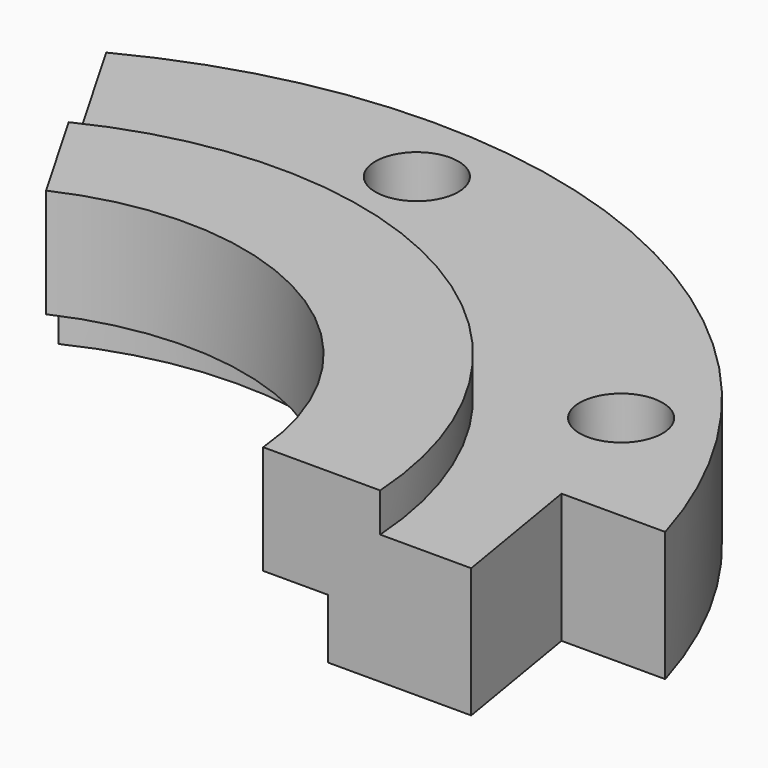
from build123d import *

# Parameters (mm, degrees)
F1_ANGLE  = 120
F2_R      = 1.6
F3_DEPTH  = 5
F6_W      = 12.938
F6_H      = 7.452
F7_DEPTH  = 1
F8_W      = 13.007
F8_H      = 7.97
F9_DEPTH  = 1
F11_DEPTH = 5


with BuildPart() as f1:
    # F0 (on Front) → F1 (revolve)
    with BuildSketch(Plane.XZ):
        Polygon((23, 5), (15.5, 5), (15.5, 6.5), (11, 6.5), (11, 2.3), (13.5, 2.3), (13.5, 0), (23, 0), align=None)
    revolve(axis=Axis((0, 0, 3.7848940119), (0, 0, 1)), revolution_arc=F1_ANGLE)

    # F2 (on face) → F3 (cut, through all)
    with BuildSketch(Plane.XY.offset(5)):
        with Locations((1.743114855, 19.9238939618)):
            Circle(F2_R)
        with Locations((16.3830408858, 11.471528727)):
            Circle(F2_R)
    extrude(amount=-F3_DEPTH, mode=Mode.SUBTRACT)

    # F6 (on offset) → F7 (cut, through all)
    with BuildSketch(Plane.XZ.offset(-1)):
        with Locations((17.1259158669, 3.1437808403)):
            Rectangle(F6_W, F6_H)
    extrude(amount=F7_DEPTH, mode=Mode.SUBTRACT)

    # F8 (on offset) → F9 (cut, through all)
    with BuildSketch(Plane(origin=(0.8660254038, 0.5, 0), x_dir=(0.5, -0.8660254038, 0), z_dir=(-0.8660254038, -0.5, 0))):
        with Locations((-17.1034485545, 3.2673813227)):
            Rectangle(F8_W, F8_H)
    extrude(amount=F9_DEPTH, mode=Mode.SUBTRACT)

    # F10 (on face) → F11 (cut, through all)
    with BuildSketch(Plane.XY.offset(5)):
        with BuildLine():
            Line((18.9782505862, 1), (22.9782505862, 1))
            ThreePointArc((22.9782505862, 1), (22.6876135739, 3.777855254), (22.0624114729, 6.5))
            Line((22.0624114729, 6.5), (18.0624114729, 6.5))
            Line((18.0624114729, 6.5), (18.9782505862, 1))
        make_face()
        with BuildLine():
            ThreePointArc((22.0624114729, 6.5), (22.6876135739, 3.777855254), (22.9782505862, 1))
            Line((22.9782505862, 1), (23.6873179674, 0.9982389165))
            Line((23.6873179674, 0.9982389165), (23.6873179674, 6.5))
            Line((23.6873179674, 6.5), (22.0624114729, 6.5))
        make_face()
    extrude(amount=-F11_DEPTH, mode=Mode.SUBTRACT)


solid = f1.part
